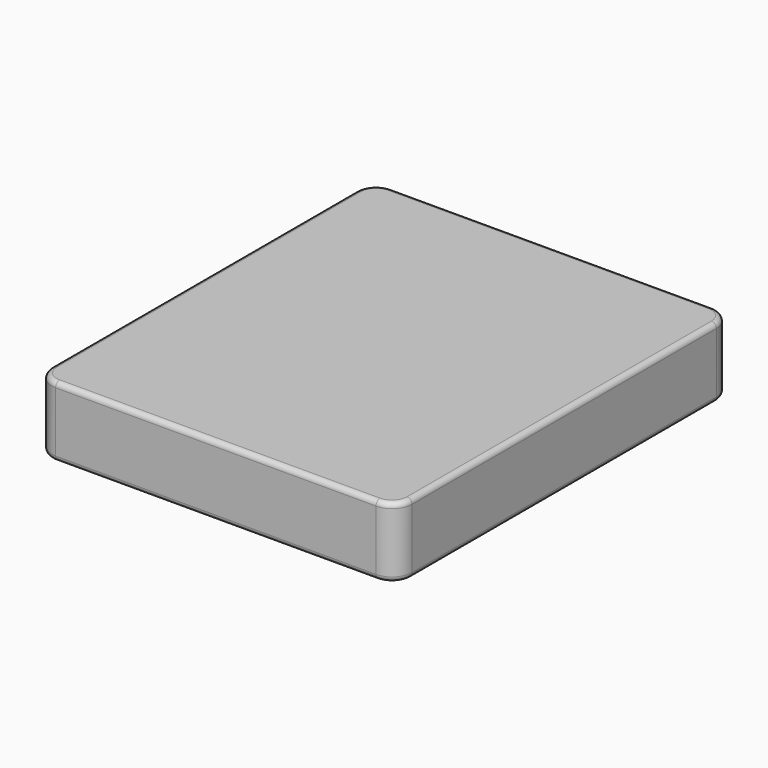
from build123d import *

# Parameters (mm, degrees)
F0_W     = 1828.8
F0_H     = 2133.6
F1_DEPTH = 355.6
F2_R     = 101.6
F3_R     = 25.4


with BuildPart() as f1:
    # F0 (on Top) → F1 (new body)
    with BuildSketch(Plane.XY):
        Rectangle(F0_W, F0_H)
    extrude(amount=F1_DEPTH)

    # F2
    f2_edges = [f1.edges().sort_by_distance(p)[0] for p in [
        (-914.4, -1066.8, 177.8),
        (914.4, -1066.8, 177.8),
        (914.4, 1066.8, 177.8),
        (-914.4, 1066.8, 177.8),
    ]]
    fillet(f2_edges, radius=F2_R)

    # F3
    f3_edges = [f1.edges().sort_by_distance(p)[0] for p in [
        (884.642049, 1037.042049, 355.6),
        (884.642049, 1037.042049, 0),
    ]]
    fillet(f3_edges, radius=F3_R)


solid = f1.part
